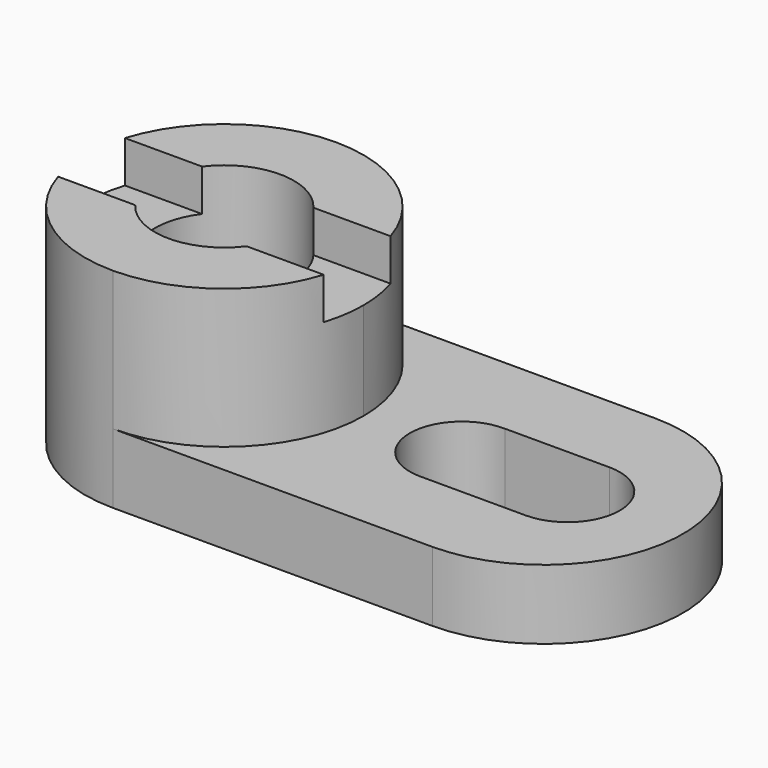
from build123d import *

# Parameters (mm, degrees)
F1_DEPTH  = 10
F3_DEPTH  = 20
F4_R      = 10
F5_DEPTH  = 93.7
F6_W      = 50
F6_H      = 12
F7_DEPTH  = 6
F10_DEPTH = 28.9


with BuildPart() as f1:
    # F0 (on Top) → F1 (new body)
    with BuildSketch(Plane.XY):
        with BuildLine():
            Line((45.882642, 20), (0, 20))
            ThreePointArc((0, 20), (-20, 0), (0, -20))
            Line((0, -20), (45.882642, -20))
            ThreePointArc((45.882642, -20), (65.882642, 0), (45.882642, 20))
        make_face()
    extrude(amount=F1_DEPTH)

    # F2 (on face) → F3 (join)
    with BuildSketch(Plane.XY.offset(10)):
        with BuildLine():
            ThreePointArc((0, -20), (14.142136, -14.142136), (20, 0))
            ThreePointArc((20, 0), (14.142136, 14.142136), (0, 20))
            ThreePointArc((0, 20), (-20, 0), (0, -20))
        make_face()
    extrude(amount=F3_DEPTH)

    # F4 (on face) → F5 (cut)
    with BuildSketch(Plane.XY.offset(30)):
        Circle(F4_R)
    extrude(amount=-F5_DEPTH, mode=Mode.SUBTRACT)

    # F6 (on face) → F7 (cut)
    with BuildSketch(Plane.XY.offset(30)):
        Rectangle(F6_W, F6_H)
    extrude(amount=-F7_DEPTH, mode=Mode.SUBTRACT)

    # F8 (on face) + F9 (on face) → F10 (cut)
    with BuildSketch(Plane.XY.offset(10)):
        with BuildLine():
            Line((49.295593, 7.5), (34.295593, 7.498614))
            ThreePointArc((34.295593, 7.498614), (26.654353, 0.210243), (33.875122, -7.494909))
            Line((33.875122, -7.494909), (34.422741, -7.49509))
            Line((34.422741, -7.49509), (49.29381, -7.5))
            ThreePointArc((49.29381, -7.5), (56.796286, -0.000891), (49.295593, 7.5))
        make_face()
        with BuildLine():
            Line((34.422741, -7.49509), (33.875122, -7.494909))
            ThreePointArc((33.875122, -7.494909), (34.14893, -7.5), (34.422741, -7.49509))
        make_face()
    with BuildSketch(Plane.XY.offset(10)):
        with BuildLine():
            ThreePointArc((49.29381, -7.5), (56.796286, -0.000891), (49.295593, 7.5))
            Line((49.295593, 7.5), (34.295593, 7.498614))
            ThreePointArc((34.295593, 7.498614), (26.654353, 0.210243), (33.875122, -7.494909))
            Line((33.875122, -7.494909), (34.422741, -7.49509))
            Line((34.422741, -7.49509), (49.29381, -7.5))
        make_face()
    extrude(amount=-F10_DEPTH, mode=Mode.SUBTRACT)


solid = f1.part
